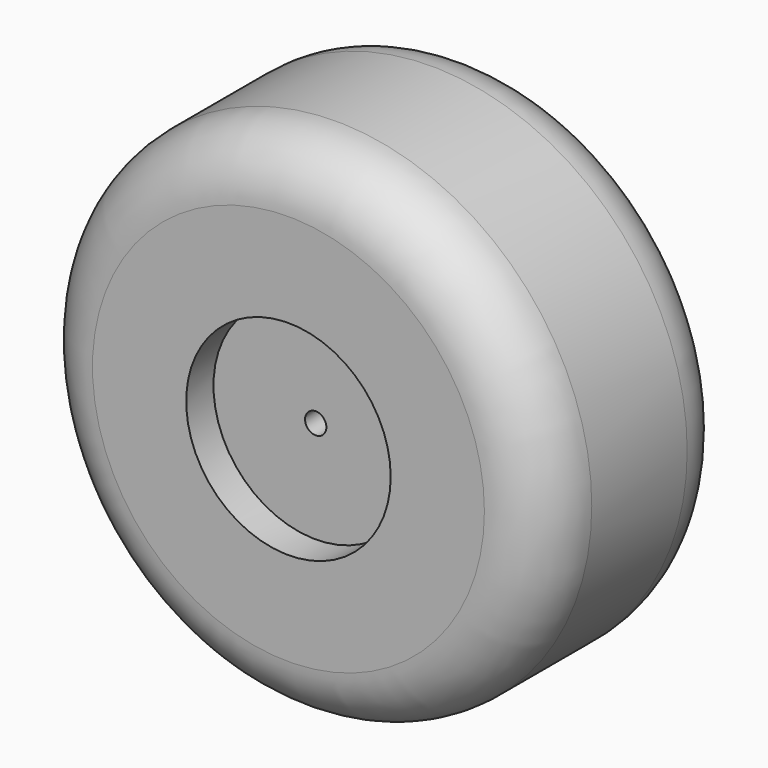
from build123d import *

# Parameters (mm, degrees)
F0_R     = 190.5
F1_DEPTH = 88.9
F2_R     = 76.2
F3_DEPTH = 25.4
F4_R     = 76.2
F5_DEPTH = 25.4
F6_R     = 7.9375
F7_DEPTH = 127
F8_R     = 44.45


with BuildPart() as f1:
    # F0 (on Front) → F1 (new body, symmetric)
    with BuildSketch(Plane.XZ):
        Circle(F0_R)
    extrude(amount=F1_DEPTH, both=True)

    # F2 (on face) → F3 (cut)
    with BuildSketch(Plane.XZ.offset(88.9)):
        Circle(F2_R)
    extrude(amount=-F3_DEPTH, mode=Mode.SUBTRACT)

    # F4 (on face) → F5 (cut)
    with BuildSketch(Plane(origin=(0, 88.9, 0), x_dir=(-1, 0, 0), z_dir=(0, 1, 0))):
        Circle(F4_R)
    extrude(amount=-F5_DEPTH, mode=Mode.SUBTRACT)

    # F6 (on face) → F7 (cut, symmetric)
    with BuildSketch(Plane.XZ.offset(63.5)):
        Circle(F6_R)
    extrude(amount=F7_DEPTH, both=True, mode=Mode.SUBTRACT)

    # F8
    f8_edges = [f1.edges().sort_by_distance(p)[0] for p in [
        (-190.5, 88.9, 0),
        (-190.5, -88.9, 0),
    ]]
    fillet(f8_edges, radius=F8_R)


solid = f1.part
